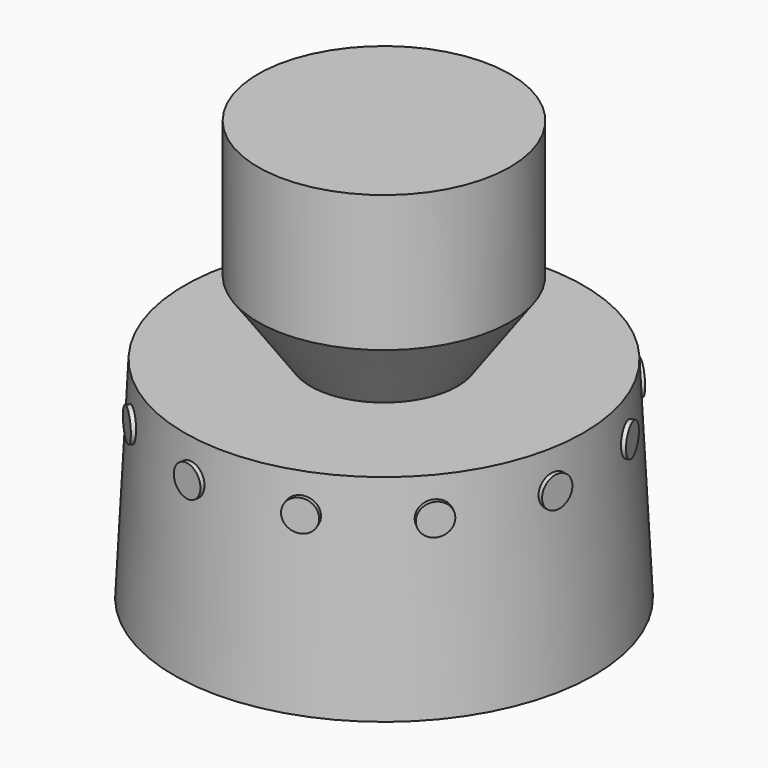
from build123d import *

# Parameters (mm, degrees)
F7_R     = 15
F8_DEPTH = 100
F9_COUNT = 12


with BuildPart() as f1:
    # F0 (on Front) → F1 (revolve)
    with BuildSketch(Plane.XZ):
        Polygon((0, 200), (0, 0), (200, 0), (190, 200), align=None)
    revolve(axis=Axis((0, 0, 33.333332), (0, 0, -1)))

    # F2 (on Front) → F3 (revolve)
    with BuildSketch(Plane.XZ):
        Polygon((70, 200), (120, 270), (120, 400), (0, 400), (0, 200), align=None)
    revolve(axis=Axis((0, 0, 33.333332), (0, 0, -1)))


with BuildPart() as f8:
    # F7 (on face) → F8 (new body)
    with BuildSketch(Plane(origin=(183.240061, 66.693928, 0), x_dir=(-0.34202, 0.939693, 0), z_dir=(0.939693, 0.34202, 0))):
        with Locations((0, 165)):
            Circle(F7_R)
    extrude(amount=-F8_DEPTH)


with BuildPart() as f9_1:
    # F9: instance of F8
    add(f8.part.rotate(Axis((0, 0, 100), (0, 0, -1)), 1 * 360 / F9_COUNT))


with BuildPart() as f9_2:
    # F9: instance of F8
    add(f8.part.rotate(Axis((0, 0, 100), (0, 0, -1)), 2 * 360 / F9_COUNT))


with BuildPart() as f9_3:
    # F9: instance of F8
    add(f8.part.rotate(Axis((0, 0, 100), (0, 0, -1)), 3 * 360 / F9_COUNT))


with BuildPart() as f9_4:
    # F9: instance of F8
    add(f8.part.rotate(Axis((0, 0, 100), (0, 0, -1)), 4 * 360 / F9_COUNT))


with BuildPart() as f9_5:
    # F9: instance of F8
    add(f8.part.rotate(Axis((0, 0, 100), (0, 0, -1)), 5 * 360 / F9_COUNT))


with BuildPart() as f9_6:
    # F9: instance of F8
    add(f8.part.rotate(Axis((0, 0, 100), (0, 0, -1)), 6 * 360 / F9_COUNT))


with BuildPart() as f9_7:
    # F9: instance of F8
    add(f8.part.rotate(Axis((0, 0, 100), (0, 0, -1)), 7 * 360 / F9_COUNT))


with BuildPart() as f9_8:
    # F9: instance of F8
    add(f8.part.rotate(Axis((0, 0, 100), (0, 0, -1)), 8 * 360 / F9_COUNT))


with BuildPart() as f9_9:
    # F9: instance of F8
    add(f8.part.rotate(Axis((0, 0, 100), (0, 0, -1)), 9 * 360 / F9_COUNT))


with BuildPart() as f9_10:
    # F9: instance of F8
    add(f8.part.rotate(Axis((0, 0, 100), (0, 0, -1)), 10 * 360 / F9_COUNT))


with BuildPart() as f9_11:
    # F9: instance of F8
    add(f8.part.rotate(Axis((0, 0, 100), (0, 0, -1)), 11 * 360 / F9_COUNT))


solid = Compound([f1.part, f8.part, f9_1.part, f9_2.part, f9_3.part, f9_4.part, f9_5.part, f9_6.part, f9_7.part, f9_8.part, f9_9.part, f9_10.part, f9_11.part])
